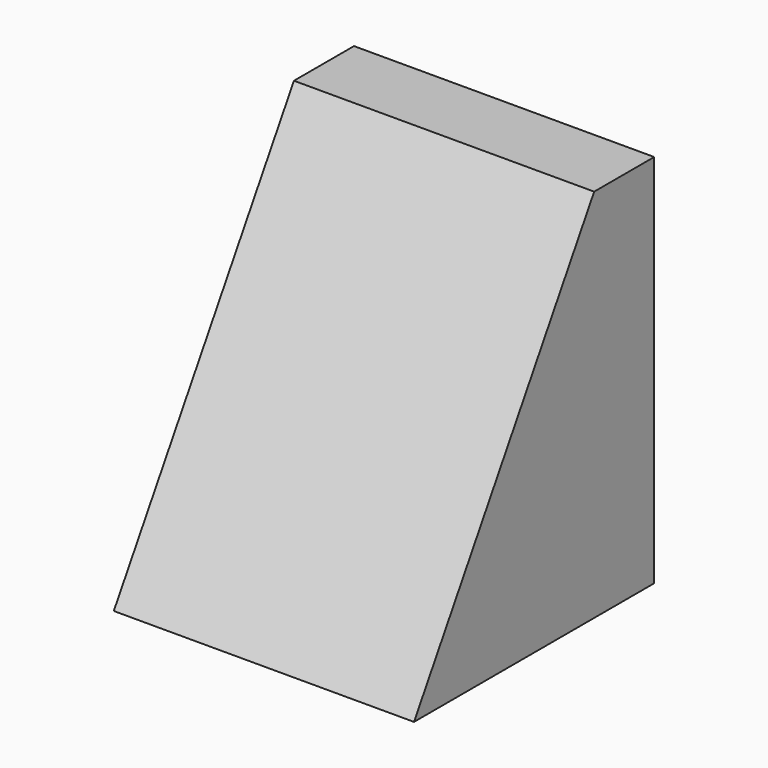
from build123d import *

# Parameters (mm, degrees)
F1_DEPTH = 31.75
F4_DEPTH = 25.4


with BuildPart() as f1:
    # F0 (on Top) → F1 (new body)
    with BuildSketch(Plane.XY):
        Polygon((-6.35, 0), (0, 0), (0, 38.1), (-25.4, 38.1), (-25.4, 25.4), (-6.35, 25.4), align=None)
    extrude(amount=F1_DEPTH)


with BuildPart() as f4:
    # F3 (on Right) → F4 (new body)
    with BuildSketch(Plane.YZ):
        Polygon((-25.4, 0), (0, 0), (0, 31.75), (-6.35, 31.75), align=None)
    extrude(amount=F4_DEPTH)


solid = f4.part
